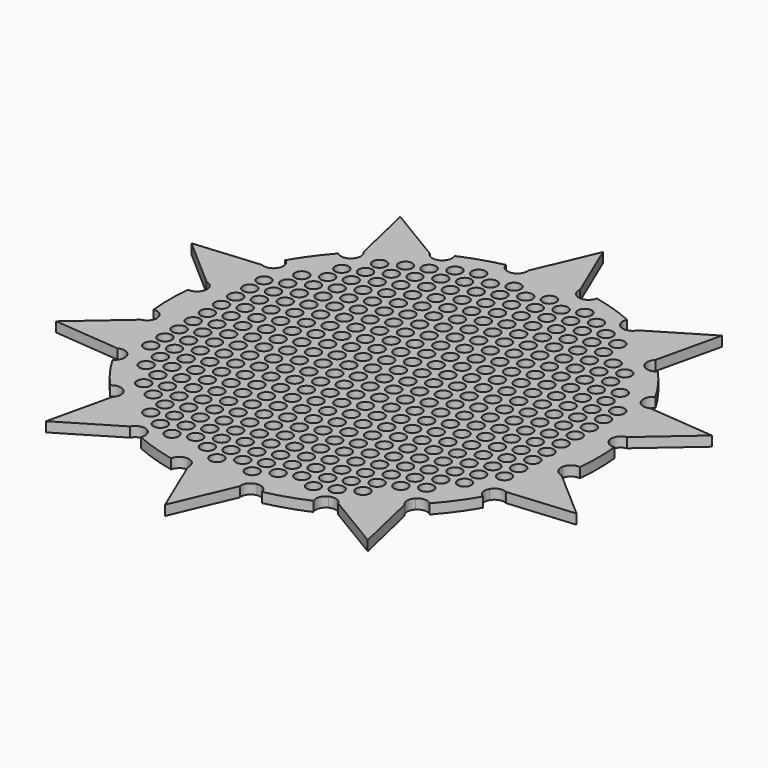
from build123d import *

# Parameters (mm, degrees)
F0_R     = 2.5
F1_DEPTH = 0.127
F3_R     = 0.0875
F4_DEPTH = 0.128


with BuildPart() as f1:
    # F0 (on Top) → F1 (new body)
    with BuildSketch(Plane.XY):
        with BuildLine():
            ThreePointArc((0.4371819273, 2.5863102989), (0.355691734, 2.6367647524), (0.332670369, 2.7298041002))
            ThreePointArc((0.332670369, 2.7298041002), (0, 2.75), (-0.332670369, 2.7298041002))
            ThreePointArc((-0.332670369, 2.7298041002), (-0.3556917334, 2.6367647532), (-0.4371819253, 2.5863102993))
            ThreePointArc((-0.4371819253, 2.5863102993), (1e-09, 2.623), (0.4371819273, 2.5863102989))
        make_face()
        with BuildLine():
            ThreePointArc((-0.332670369, 2.7298041002), (0, 2.75), (0.332670369, 2.7298041002))
            Line((0.332670369, 2.7298041002), (0, 3.512))
            Line((0, 3.512), (-0.332670369, 2.7298041002))
        make_face()
        with BuildLine():
            ThreePointArc((0.58305072, 2.6874805781), (0.5307280391, 2.6071771648), (0.4371819273, 2.5863102989))
            ThreePointArc((0.4371819273, 2.5863102989), (0.8105515843, 2.4946212396), (1.1665074579, 2.3493380665))
            ThreePointArc((1.1665074579, 2.3493380665), (1.1030922874, 2.4212047401), (1.1079635086, 2.5169260743))
            ThreePointArc((1.1079635086, 2.5169260743), (0.8497967345, 2.6154054198), (0.58305072, 2.6874805781))
        make_face()
        with BuildLine():
            ThreePointArc((1.1665074579, 2.3493380665), (0.8105515843, 2.4946212396), (0.4371819273, 2.5863102989))
            ThreePointArc((0.4371819273, 2.5863102989), (1e-09, 2.623), (-0.4371819253, 2.5863102993))
            ThreePointArc((-0.4371819253, 2.5863102993), (-0.8105515878, 2.4946212385), (-1.1665074663, 2.3493380623))
            ThreePointArc((-1.1665074663, 2.3493380623), (-1.5417607284, 2.1220515678), (-1.8738826621, 1.8353998934))
            ThreePointArc((-1.8738826621, 1.8353998934), (-2.1220515776, 1.5417607149), (-2.3246306188, 1.2149985539))
            ThreePointArc((-2.3246306188, 1.2149985539), (-2.4946212423, 0.8105515762), (-2.5948239078, 0.3834291163))
            ThreePointArc((-2.5948239078, 0.3834291163), (-2.623, 0), (-2.5948239078, -0.3834291163))
            ThreePointArc((-2.5948239078, -0.3834291163), (-2.4946212423, -0.8105515762), (-2.3246306188, -1.2149985539))
            ThreePointArc((-2.3246306188, -1.2149985539), (-2.1220515776, -1.5417607149), (-1.8738826621, -1.8353998934))
            ThreePointArc((-1.8738826621, -1.8353998934), (-1.5417607284, -2.1220515678), (-1.1665074663, -2.3493380623))
            ThreePointArc((-1.1665074663, -2.3493380623), (-0.8105515897, -2.4946212379), (-0.4371819293, -2.5863102986))
            ThreePointArc((-0.4371819293, -2.5863102986), (-1.56e-08, -2.623), (0.4371818986, -2.5863103038))
            ThreePointArc((0.4371818986, -2.5863103038), (0.8105515616, -2.494621247), (1.1665074412, -2.3493380748))
            ThreePointArc((1.1665074412, -2.3493380748), (1.541760707, -2.1220515834), (1.8738826446, -1.8353999112))
            ThreePointArc((1.8738826446, -1.8353999112), (2.1220515703, -1.541760725), (2.3246306188, -1.2149985539))
            ThreePointArc((2.3246306188, -1.2149985539), (2.4946212397, -0.8105515841), (2.5948239054, -0.3834291328))
            ThreePointArc((2.5948239054, -0.3834291328), (2.6159464926, -0.192231496), (2.623, 0))
            ThreePointArc((2.623, 0), (2.6159464926, 0.192231496), (2.5948239054, 0.3834291328))
            ThreePointArc((2.5948239054, 0.3834291328), (2.4946212397, 0.8105515841), (2.3246306188, 1.2149985539))
            ThreePointArc((2.3246306188, 1.2149985539), (2.1220515776, 1.5417607149), (1.8738826621, 1.8353998934))
            ThreePointArc((1.8738826621, 1.8353998934), (1.5417607246, 2.1220515706), (1.1665074579, 2.3493380665))
        make_face()
        Circle(F0_R, mode=Mode.SUBTRACT)
        with BuildLine():
            ThreePointArc((-1.1665074663, 2.3493380623), (-0.8105515878, 2.4946212385), (-0.4371819253, 2.5863102993))
            ThreePointArc((-0.4371819253, 2.5863102993), (-0.5307280383, 2.6071771643), (-0.58305072, 2.6874805781))
            ThreePointArc((-0.58305072, 2.6874805781), (-0.8497967345, 2.6154054198), (-1.1079635086, 2.5169260743))
            ThreePointArc((-1.1079635086, 2.5169260743), (-1.1030922889, 2.4212047357), (-1.1665074663, 2.3493380623))
        make_face()
        with BuildLine():
            ThreePointArc((1.3354026098, 2.4039966451), (1.2620907858, 2.3422578531), (1.1665074579, 2.3493380665))
            ThreePointArc((1.1665074579, 2.3493380665), (1.5417607246, 2.1220515706), (1.8738826621, 1.8353998934))
            ThreePointArc((1.8738826621, 1.8353998934), (1.8376120928, 1.9241171381), (1.8736745738, 2.0129191717))
            ThreePointArc((1.8736745738, 2.0129191717), (1.6164094438, 2.2247967345), (1.3354026098, 2.4039966451))
        make_face()
        with BuildLine():
            ThreePointArc((-1.8738826621, 1.8353998934), (-1.5417607284, 2.1220515678), (-1.1665074663, 2.3493380623))
            ThreePointArc((-1.1665074663, 2.3493380623), (-1.2620907902, 2.3422578545), (-1.3354026098, 2.4039966451))
            ThreePointArc((-1.3354026098, 2.4039966451), (-1.6164094438, 2.2247967345), (-1.8736745738, 2.0129191717))
            ThreePointArc((-1.8736745738, 2.0129191717), (-1.8376120928, 1.9241171381), (-1.8738826621, 1.8353998934))
        make_face()
        with BuildLine():
            ThreePointArc((2.0513593907, 1.8315088452), (1.9618282918, 1.7972965193), (1.8738826621, 1.8353998934))
            ThreePointArc((1.8738826621, 1.8353998934), (2.1220515776, 1.5417607149), (2.3246306188, 1.2149985539))
            ThreePointArc((2.3246306188, 1.2149985539), (2.315568848, 1.3104144102), (2.3757733352, 1.3849913573))
            ThreePointArc((2.3757733352, 1.3849913573), (2.2247967345, 1.6164094438), (2.0513593907, 1.8315088452))
        make_face()
        with BuildLine():
            Line((2.0643018061, 2.8412676842), (1.3354026098, 2.4039966451))
            ThreePointArc((1.3354026098, 2.4039966451), (1.6164094438, 2.2247967345), (1.8736745738, 2.0129191717))
            Line((1.8736745738, 2.0129191717), (2.0643018061, 2.8412676842))
        make_face()
        with BuildLine():
            ThreePointArc((-2.3246306188, 1.2149985539), (-2.1220515776, 1.5417607149), (-1.8738826621, 1.8353998934))
            ThreePointArc((-1.8738826621, 1.8353998934), (-1.9618282918, 1.7972965193), (-2.0513593907, 1.8315088452))
            ThreePointArc((-2.0513593907, 1.8315088452), (-2.2247967345, 1.6164094438), (-2.3757733352, 1.3849913573))
            ThreePointArc((-2.3757733352, 1.3849913573), (-2.315568848, 1.3104144102), (-2.3246306188, 1.2149985539))
        make_face()
        with BuildLine():
            ThreePointArc((-1.8736745738, 2.0129191717), (-1.6164094438, 2.2247967345), (-1.3354026098, 2.4039966451))
            Line((-1.3354026098, 2.4039966451), (-2.0643018061, 2.8412676842))
            Line((-2.0643018061, 2.8412676842), (-1.8736745738, 2.0129191717))
        make_face()
        with BuildLine():
            ThreePointArc((2.4933971802, 1.1599441805), (2.3977975102, 1.1530880597), (2.3246306188, 1.2149985539))
            ThreePointArc((2.3246306188, 1.2149985539), (2.4946212397, 0.8105515841), (2.5948239054, 0.3834291328))
            ThreePointArc((2.5948239054, 0.3834291328), (2.6176270957, 0.4765221848), (2.6989987753, 0.5271675361))
            ThreePointArc((2.6989987753, 0.5271675361), (2.6154054198, 0.8497967345), (2.4933971802, 1.1599441805))
        make_face()
        with BuildLine():
            ThreePointArc((-2.5948239078, 0.3834291163), (-2.4946212423, 0.8105515762), (-2.3246306188, 1.2149985539))
            ThreePointArc((-2.3246306188, 1.2149985539), (-2.3977975102, 1.1530880597), (-2.4933971802, 1.1599441805))
            ThreePointArc((-2.4933971802, 1.1599441805), (-2.6154054198, 0.8497967345), (-2.6989987753, 0.5271675361))
            ThreePointArc((-2.6989987753, 0.5271675361), (-2.6176270909, 0.4765221781), (-2.5948239078, 0.3834291163))
        make_face()
        with BuildLine():
            ThreePointArc((2.7361184973, 0.2759629841), (2.6435768078, 0.300909697), (2.5948239054, 0.3834291328))
            ThreePointArc((2.5948239054, 0.3834291328), (2.6159464926, 0.192231496), (2.623, 0))
            ThreePointArc((2.623, 0), (2.6159464926, -0.192231496), (2.5948239054, -0.3834291328))
            ThreePointArc((2.5948239054, -0.3834291328), (2.6435768078, -0.300909697), (2.7361184973, -0.2759629841))
            ThreePointArc((2.7361184973, -0.2759629841), (2.75, 0), (2.7361184973, 0.2759629841))
        make_face()
        with BuildLine():
            Line((3.3401104852, 1.0852676842), (2.4933971802, 1.1599441805))
            ThreePointArc((2.4933971802, 1.1599441805), (2.6154054198, 0.8497967345), (2.6989987753, 0.5271675361))
            Line((2.6989987753, 0.5271675361), (3.3401104852, 1.0852676842))
        make_face()
        with BuildLine():
            ThreePointArc((-2.5948239078, -0.3834291163), (-2.623, 0), (-2.5948239078, 0.3834291163))
            ThreePointArc((-2.5948239078, 0.3834291163), (-2.6435768144, 0.3009096919), (-2.7361184973, 0.2759629841))
            ThreePointArc((-2.7361184973, 0.2759629841), (-2.75, 0), (-2.7361184973, -0.2759629841))
            ThreePointArc((-2.7361184973, -0.2759629841), (-2.6435768144, -0.3009096919), (-2.5948239078, -0.3834291163))
        make_face()
        with BuildLine():
            ThreePointArc((-2.6989987753, 0.5271675361), (-2.6154054198, 0.8497967345), (-2.4933971802, 1.1599441805))
            Line((-2.4933971802, 1.1599441805), (-3.3401104852, 1.0852676842))
            Line((-3.3401104852, 1.0852676842), (-2.6989987753, 0.5271675361))
        make_face()
        with BuildLine():
            ThreePointArc((-2.3246306188, -1.2149985539), (-2.4946212423, -0.8105515762), (-2.5948239078, -0.3834291163))
            ThreePointArc((-2.5948239078, -0.3834291163), (-2.6176270909, -0.4765221781), (-2.6989987753, -0.5271675361))
            ThreePointArc((-2.6989987753, -0.5271675361), (-2.6154054198, -0.8497967345), (-2.4933971802, -1.1599441805))
            ThreePointArc((-2.4933971802, -1.1599441805), (-2.3977975102, -1.1530880597), (-2.3246306188, -1.2149985539))
        make_face()
        with BuildLine():
            ThreePointArc((2.6989987753, -0.5271675361), (2.6176270957, -0.4765221848), (2.5948239054, -0.3834291328))
            ThreePointArc((2.5948239054, -0.3834291328), (2.4946212397, -0.8105515841), (2.3246306188, -1.2149985539))
            ThreePointArc((2.3246306188, -1.2149985539), (2.3977975102, -1.1530880597), (2.4933971802, -1.1599441805))
            ThreePointArc((2.4933971802, -1.1599441805), (2.6154054198, -0.8497967345), (2.6989987753, -0.5271675361))
        make_face()
        with BuildLine():
            ThreePointArc((-1.8738826621, -1.8353998934), (-2.1220515776, -1.5417607149), (-2.3246306188, -1.2149985539))
            ThreePointArc((-2.3246306188, -1.2149985539), (-2.315568848, -1.3104144102), (-2.3757733352, -1.3849913573))
            ThreePointArc((-2.3757733352, -1.3849913573), (-2.2247967345, -1.6164094438), (-2.0513593907, -1.8315088452))
            ThreePointArc((-2.0513593907, -1.8315088452), (-1.9618282918, -1.7972965193), (-1.8738826621, -1.8353998934))
        make_face()
        with BuildLine():
            ThreePointArc((-2.4933971802, -1.1599441805), (-2.6154054198, -0.8497967345), (-2.6989987753, -0.5271675361))
            Line((-2.6989987753, -0.5271675361), (-3.3401104852, -1.0852676842))
            Line((-3.3401104852, -1.0852676842), (-2.4933971802, -1.1599441805))
        make_face()
        with BuildLine():
            ThreePointArc((2.3757733352, -1.3849913573), (2.315568848, -1.3104144102), (2.3246306188, -1.2149985539))
            ThreePointArc((2.3246306188, -1.2149985539), (2.1220515703, -1.541760725), (1.8738826446, -1.8353999112))
            ThreePointArc((1.8738826446, -1.8353999112), (1.9618282794, -1.7972965196), (2.0513593907, -1.8315088452))
            ThreePointArc((2.0513593907, -1.8315088452), (2.2247967345, -1.6164094438), (2.3757733352, -1.3849913573))
        make_face()
        with BuildLine():
            Line((3.3401104852, -1.0852676842), (2.6989987753, -0.5271675361))
            ThreePointArc((2.6989987753, -0.5271675361), (2.6154054198, -0.8497967345), (2.4933971802, -1.1599441805))
            Line((2.4933971802, -1.1599441805), (3.3401104852, -1.0852676842))
        make_face()
        with BuildLine():
            ThreePointArc((-1.1665074663, -2.3493380623), (-1.5417607284, -2.1220515678), (-1.8738826621, -1.8353998934))
            ThreePointArc((-1.8738826621, -1.8353998934), (-1.8376120928, -1.9241171381), (-1.8736745738, -2.0129191717))
            ThreePointArc((-1.8736745738, -2.0129191717), (-1.6164094438, -2.2247967345), (-1.3354026098, -2.4039966451))
            ThreePointArc((-1.3354026098, -2.4039966451), (-1.2620907902, -2.3422578545), (-1.1665074663, -2.3493380623))
        make_face()
        with BuildLine():
            ThreePointArc((1.8736745738, -2.0129191717), (1.8376120928, -1.9241171506), (1.8738826446, -1.8353999112))
            ThreePointArc((1.8738826446, -1.8353999112), (1.541760707, -2.1220515834), (1.1665074412, -2.3493380748))
            ThreePointArc((1.1665074412, -2.3493380748), (1.2620907769, -2.3422578502), (1.3354026098, -2.4039966451))
            ThreePointArc((1.3354026098, -2.4039966451), (1.6164094438, -2.2247967345), (1.8736745738, -2.0129191717))
        make_face()
        with BuildLine():
            ThreePointArc((-0.4371819293, -2.5863102986), (-0.8105515897, -2.4946212379), (-1.1665074663, -2.3493380623))
            ThreePointArc((-1.1665074663, -2.3493380623), (-1.1030922889, -2.4212047357), (-1.1079635086, -2.5169260743))
            ThreePointArc((-1.1079635086, -2.5169260743), (-0.8497967345, -2.6154054198), (-0.58305072, -2.6874805781))
            ThreePointArc((-0.58305072, -2.6874805781), (-0.5307280399, -2.6071771654), (-0.4371819293, -2.5863102986))
        make_face()
        with BuildLine():
            ThreePointArc((-1.3354026098, -2.4039966451), (-1.6164094438, -2.2247967345), (-1.8736745738, -2.0129191717))
            Line((-1.8736745738, -2.0129191717), (-2.0643018061, -2.8412676842))
            Line((-2.0643018061, -2.8412676842), (-1.3354026098, -2.4039966451))
        make_face()
        with BuildLine():
            ThreePointArc((1.1079635086, -2.5169260743), (1.1030922843, -2.4212047489), (1.1665074412, -2.3493380748))
            ThreePointArc((1.1665074412, -2.3493380748), (0.8105515616, -2.494621247), (0.4371818986, -2.5863103038))
            ThreePointArc((0.4371818986, -2.5863103038), (0.5307280271, -2.6071771565), (0.58305072, -2.6874805781))
            ThreePointArc((0.58305072, -2.6874805781), (0.8497967345, -2.6154054198), (1.1079635086, -2.5169260743))
        make_face()
        with BuildLine():
            Line((2.0643018061, -2.8412676842), (1.8736745738, -2.0129191717))
            ThreePointArc((1.8736745738, -2.0129191717), (1.6164094438, -2.2247967345), (1.3354026098, -2.4039966451))
            Line((1.3354026098, -2.4039966451), (2.0643018061, -2.8412676842))
        make_face()
        with BuildLine():
            ThreePointArc((0.4371818986, -2.5863103038), (-1.56e-08, -2.623), (-0.4371819293, -2.5863102986))
            ThreePointArc((-0.4371819293, -2.5863102986), (-0.3556917345, -2.6367647516), (-0.332670369, -2.7298041002))
            ThreePointArc((-0.332670369, -2.7298041002), (0, -2.75), (0.332670369, -2.7298041002))
            ThreePointArc((0.332670369, -2.7298041002), (0.3556917254, -2.6367647642), (0.4371818986, -2.5863103038))
        make_face()
        with BuildLine():
            ThreePointArc((0.332670369, -2.7298041002), (0, -2.75), (-0.332670369, -2.7298041002))
            Line((-0.332670369, -2.7298041002), (0, -3.512))
            Line((0, -3.512), (0.332670369, -2.7298041002))
        make_face()
        Circle(F0_R)
    extrude(amount=F1_DEPTH)

    # F3 (on offset) → F4 (cut, through all)
    with BuildSketch(Plane.XY.offset(0.127)):
        with Locations((-2.0417519944, 1.2336155081)):
            Circle(F3_R)
        with Locations((-2.0417519944, 1.0066155081)):
            Circle(F3_R)
        with Locations((-2.2690836629, 0.9108655081)):
            Circle(F3_R)
        with Locations((-2.0417519944, 0.7796155081)):
            Circle(F3_R)
        with Locations((-1.5877519944, 1.9146155081)):
            Circle(F3_R)
        with Locations((-1.5877519944, 1.6876155081)):
            Circle(F3_R)
        with Locations((-1.8150836629, 1.5918655081)):
            Circle(F3_R)
        with Locations((-1.5877519944, 1.4606155081)):
            Circle(F3_R)
        with Locations((-1.8150836629, 1.3648655081)):
            Circle(F3_R)
        with Locations((-1.5877519944, 1.2336155081)):
            Circle(F3_R)
        with Locations((-1.8150836629, 1.1378655081)):
            Circle(F3_R)
        with Locations((-1.5877519944, 1.0066155081)):
            Circle(F3_R)
        with Locations((-1.8150836629, 0.9108655081)):
            Circle(F3_R)
        with Locations((-1.5877519944, 0.7796155081)):
            Circle(F3_R)
        with Locations((-1.1337519944, 2.1416155081)):
            Circle(F3_R)
        with Locations((-1.3610836629, 2.0458655081)):
            Circle(F3_R)
        with Locations((-1.1337519944, 1.9146155081)):
            Circle(F3_R)
        with Locations((-1.3610836629, 1.8188655081)):
            Circle(F3_R)
        with Locations((-1.1337519944, 1.6876155081)):
            Circle(F3_R)
        with Locations((-1.3610836629, 1.5918655081)):
            Circle(F3_R)
        with Locations((-1.1337519944, 1.4606155081)):
            Circle(F3_R)
        with Locations((-1.3610836629, 1.3648655081)):
            Circle(F3_R)
        with Locations((-1.1337519944, 1.2336155081)):
            Circle(F3_R)
        with Locations((-1.3610836629, 1.1378655081)):
            Circle(F3_R)
        with Locations((-1.1337519944, 1.0066155081)):
            Circle(F3_R)
        with Locations((-1.3610836629, 0.9108655081)):
            Circle(F3_R)
        with Locations((-1.1337519944, 0.7796155081)):
            Circle(F3_R)
        with Locations((-0.6797519944, 2.3686155081)):
            Circle(F3_R)
        with Locations((-0.9070836629, 2.2728655081)):
            Circle(F3_R)
        with Locations((-0.6797519944, 2.1416155081)):
            Circle(F3_R)
        with Locations((-0.9070836629, 2.0458655081)):
            Circle(F3_R)
        with Locations((-0.6797519944, 1.9146155081)):
            Circle(F3_R)
        with Locations((-0.9070836629, 1.8188655081)):
            Circle(F3_R)
        with Locations((-0.6797519944, 1.6876155081)):
            Circle(F3_R)
        with Locations((-0.9070836629, 1.5918655081)):
            Circle(F3_R)
        with Locations((-0.6797519944, 1.4606155081)):
            Circle(F3_R)
        with Locations((-0.9070836629, 1.3648655081)):
            Circle(F3_R)
        with Locations((-0.6797519944, 1.2336155081)):
            Circle(F3_R)
        with Locations((-0.9070836629, 1.1378655081)):
            Circle(F3_R)
        with Locations((-0.6797519944, 1.0066155081)):
            Circle(F3_R)
        with Locations((-0.9070836629, 0.9108655081)):
            Circle(F3_R)
        with Locations((-0.6797519944, 0.7796155081)):
            Circle(F3_R)
        with Locations((-0.2257519944, 2.3686155081)):
            Circle(F3_R)
        with Locations((-0.4530836629, 2.2728655081)):
            Circle(F3_R)
        with Locations((-0.2257519944, 2.1416155081)):
            Circle(F3_R)
        with Locations((-0.4530836629, 2.0458655081)):
            Circle(F3_R)
        with Locations((-0.2257519944, 1.9146155081)):
            Circle(F3_R)
        with Locations((-0.4530836629, 1.8188655081)):
            Circle(F3_R)
        with Locations((-0.2257519944, 1.6876155081)):
            Circle(F3_R)
        with Locations((-0.4530836629, 1.5918655081)):
            Circle(F3_R)
        with Locations((-0.2257519944, 1.4606155081)):
            Circle(F3_R)
        with Locations((-0.4530836629, 1.3648655081)):
            Circle(F3_R)
        with Locations((-0.2257519944, 1.2336155081)):
            Circle(F3_R)
        with Locations((-0.4530836629, 1.1378655081)):
            Circle(F3_R)
        with Locations((-0.2257519944, 1.0066155081)):
            Circle(F3_R)
        with Locations((-0.4530836629, 0.9108655081)):
            Circle(F3_R)
        with Locations((-0.2257519944, 0.7796155081)):
            Circle(F3_R)
        with Locations((0.2282480056, 2.3686155081)):
            Circle(F3_R)
        with Locations((0.0009163371, 2.2728655081)):
            Circle(F3_R)
        with Locations((0.2282480056, 2.1416155081)):
            Circle(F3_R)
        with Locations((0.0009163371, 2.0458655081)):
            Circle(F3_R)
        with Locations((0.2282480056, 1.9146155081)):
            Circle(F3_R)
        with Locations((0.0009163371, 1.8188655081)):
            Circle(F3_R)
        with Locations((0.2282480056, 1.6876155081)):
            Circle(F3_R)
        with Locations((0.0009163371, 1.5918655081)):
            Circle(F3_R)
        with Locations((0.2282480056, 1.4606155081)):
            Circle(F3_R)
        with Locations((0.0009163371, 1.3648655081)):
            Circle(F3_R)
        with Locations((0.2282480056, 1.2336155081)):
            Circle(F3_R)
        with Locations((0.0009163371, 1.1378655081)):
            Circle(F3_R)
        with Locations((0.2282480056, 1.0066155081)):
            Circle(F3_R)
        with Locations((0.0009163371, 0.9108655081)):
            Circle(F3_R)
        with Locations((0.2282480056, 0.7796155081)):
            Circle(F3_R)
        with Locations((0.6822480056, 2.3686155081)):
            Circle(F3_R)
        with Locations((0.4549163371, 2.2728655081)):
            Circle(F3_R)
        with Locations((0.6822480056, 2.1416155081)):
            Circle(F3_R)
        with Locations((0.4549163371, 2.0458655081)):
            Circle(F3_R)
        with Locations((0.6822480056, 1.9146155081)):
            Circle(F3_R)
        with Locations((0.4549163371, 1.8188655081)):
            Circle(F3_R)
        with Locations((0.6822480056, 1.6876155081)):
            Circle(F3_R)
        with Locations((0.4549163371, 1.5918655081)):
            Circle(F3_R)
        with Locations((0.6822480056, 1.4606155081)):
            Circle(F3_R)
        with Locations((0.4549163371, 1.3648655081)):
            Circle(F3_R)
        with Locations((0.6822480056, 1.2336155081)):
            Circle(F3_R)
        with Locations((0.4549163371, 1.1378655081)):
            Circle(F3_R)
        with Locations((0.6822480056, 1.0066155081)):
            Circle(F3_R)
        with Locations((0.4549163371, 0.9108655081)):
            Circle(F3_R)
        with Locations((0.6822480056, 0.7796155081)):
            Circle(F3_R)
        with Locations((0.9089163371, 2.2728655081)):
            Circle(F3_R)
        with Locations((1.1362480056, 2.1416155081)):
            Circle(F3_R)
        with Locations((0.9089163371, 2.0458655081)):
            Circle(F3_R)
        with Locations((1.1362480056, 1.9146155081)):
            Circle(F3_R)
        with Locations((0.9089163371, 1.8188655081)):
            Circle(F3_R)
        with Locations((1.1362480056, 1.6876155081)):
            Circle(F3_R)
        with Locations((0.9089163371, 1.5918655081)):
            Circle(F3_R)
        with Locations((1.1362480056, 1.4606155081)):
            Circle(F3_R)
        with Locations((0.9089163371, 1.3648655081)):
            Circle(F3_R)
        with Locations((1.1362480056, 1.2336155081)):
            Circle(F3_R)
        with Locations((0.9089163371, 1.1378655081)):
            Circle(F3_R)
        with Locations((1.1362480056, 1.0066155081)):
            Circle(F3_R)
        with Locations((0.9089163371, 0.9108655081)):
            Circle(F3_R)
        with Locations((1.1362480056, 0.7796155081)):
            Circle(F3_R)
        with Locations((1.3629163371, 2.0458655081)):
            Circle(F3_R)
        with Locations((1.3629163371, 1.8188655081)):
            Circle(F3_R)
        with Locations((1.5902480056, 1.6876155081)):
            Circle(F3_R)
        with Locations((1.3629163371, 1.5918655081)):
            Circle(F3_R)
        with Locations((1.5902480056, 1.4606155081)):
            Circle(F3_R)
        with Locations((1.3629163371, 1.3648655081)):
            Circle(F3_R)
        with Locations((1.5902480056, 1.2336155081)):
            Circle(F3_R)
        with Locations((1.3629163371, 1.1378655081)):
            Circle(F3_R)
        with Locations((1.5902480056, 1.0066155081)):
            Circle(F3_R)
        with Locations((1.3629163371, 0.9108655081)):
            Circle(F3_R)
        with Locations((1.5902480056, 0.7796155081)):
            Circle(F3_R)
        with Locations((1.8169163371, 1.5918655081)):
            Circle(F3_R)
        with Locations((1.8169163371, 1.3648655081)):
            Circle(F3_R)
        with Locations((2.0442480056, 1.2336155081)):
            Circle(F3_R)
        with Locations((1.8169163371, 1.1378655081)):
            Circle(F3_R)
        with Locations((2.0442480056, 1.0066155081)):
            Circle(F3_R)
        with Locations((1.8169163371, 0.9108655081)):
            Circle(F3_R)
        with Locations((2.0442480056, 0.7796155081)):
            Circle(F3_R)
        with Locations((-2.2690836629, 0.6838655081)):
            Circle(F3_R)
        with Locations((-2.0417519944, 0.5526155081)):
            Circle(F3_R)
        with Locations((-2.2690836629, 0.4568655081)):
            Circle(F3_R)
        with Locations((-2.0417519944, 0.3256155081)):
            Circle(F3_R)
        with Locations((-2.2690836629, 0.2298655081)):
            Circle(F3_R)
        with Locations((-2.0417519944, 0.0986155081)):
            Circle(F3_R)
        with Locations((-2.2690836629, 0.0028655081)):
            Circle(F3_R)
        with Locations((-2.0417519944, -0.1283844919)):
            Circle(F3_R)
        with Locations((-2.2690836629, -0.2241344919)):
            Circle(F3_R)
        with Locations((-2.0417519944, -0.3553844919)):
            Circle(F3_R)
        with Locations((-2.2690836629, -0.4511344919)):
            Circle(F3_R)
        with Locations((-2.0417519944, -0.5823844919)):
            Circle(F3_R)
        with Locations((-2.2690836629, -0.6781344919)):
            Circle(F3_R)
        with Locations((-2.0417519944, -0.8093844919)):
            Circle(F3_R)
        with Locations((-2.2690836629, -0.9051344919)):
            Circle(F3_R)
        with Locations((-2.0417519944, -1.0363844919)):
            Circle(F3_R)
        with Locations((-2.0417519944, -1.2633844919)):
            Circle(F3_R)
        with Locations((-1.8150836629, 0.6838655081)):
            Circle(F3_R)
        with Locations((-1.5877519944, 0.5526155081)):
            Circle(F3_R)
        with Locations((-1.8150836629, 0.4568655081)):
            Circle(F3_R)
        with Locations((-1.5877519944, 0.3256155081)):
            Circle(F3_R)
        with Locations((-1.8150836629, 0.2298655081)):
            Circle(F3_R)
        with Locations((-1.5877519944, 0.0986155081)):
            Circle(F3_R)
        with Locations((-1.8150836629, 0.0028655081)):
            Circle(F3_R)
        with Locations((-1.5877519944, -0.1283844919)):
            Circle(F3_R)
        with Locations((-1.8150836629, -0.2241344919)):
            Circle(F3_R)
        with Locations((-1.5877519944, -0.3553844919)):
            Circle(F3_R)
        with Locations((-1.8150836629, -0.4511344919)):
            Circle(F3_R)
        with Locations((-1.5877519944, -0.5823844919)):
            Circle(F3_R)
        with Locations((-1.8150836629, -0.6781344919)):
            Circle(F3_R)
        with Locations((-1.5877519944, -0.8093844919)):
            Circle(F3_R)
        with Locations((-1.8150836629, -0.9051344919)):
            Circle(F3_R)
        with Locations((-1.5877519944, -1.0363844919)):
            Circle(F3_R)
        with Locations((-1.8150836629, -1.1321344919)):
            Circle(F3_R)
        with Locations((-1.5877519944, -1.2633844919)):
            Circle(F3_R)
        with Locations((-1.8150836629, -1.3591344919)):
            Circle(F3_R)
        with Locations((-1.5877519944, -1.4903844919)):
            Circle(F3_R)
        with Locations((-1.8150836629, -1.5861344919)):
            Circle(F3_R)
        with Locations((-1.5877519944, -1.7173844919)):
            Circle(F3_R)
        with Locations((-1.3610836629, 0.6838655081)):
            Circle(F3_R)
        with Locations((-1.1337519944, 0.5526155081)):
            Circle(F3_R)
        with Locations((-1.3610836629, 0.4568655081)):
            Circle(F3_R)
        with Locations((-1.1337519944, 0.3256155081)):
            Circle(F3_R)
        with Locations((-1.3610836629, 0.2298655081)):
            Circle(F3_R)
        with Locations((-1.1337519944, 0.0986155081)):
            Circle(F3_R)
        with Locations((-1.3610836629, 0.0028655081)):
            Circle(F3_R)
        with Locations((-1.1337519944, -0.1283844919)):
            Circle(F3_R)
        with Locations((-1.3610836629, -0.2241344919)):
            Circle(F3_R)
        with Locations((-1.1337519944, -0.3553844919)):
            Circle(F3_R)
        with Locations((-1.3610836629, -0.4511344919)):
            Circle(F3_R)
        with Locations((-1.1337519944, -0.5823844919)):
            Circle(F3_R)
        with Locations((-1.3610836629, -0.6781344919)):
            Circle(F3_R)
        with Locations((-1.1337519944, -0.8093844919)):
            Circle(F3_R)
        with Locations((-1.3610836629, -0.9051344919)):
            Circle(F3_R)
        with Locations((-1.1337519944, -1.0363844919)):
            Circle(F3_R)
        with Locations((-1.3610836629, -1.1321344919)):
            Circle(F3_R)
        with Locations((-1.1337519944, -1.2633844919)):
            Circle(F3_R)
        with Locations((-1.3610836629, -1.3591344919)):
            Circle(F3_R)
        with Locations((-1.1337519944, -1.4903844919)):
            Circle(F3_R)
        with Locations((-1.3610836629, -1.5861344919)):
            Circle(F3_R)
        with Locations((-1.1337519944, -1.7173844919)):
            Circle(F3_R)
        with Locations((-0.9070836629, 0.6838655081)):
            Circle(F3_R)
        with Locations((-0.6797519944, 0.5526155081)):
            Circle(F3_R)
        with Locations((-0.9070836629, 0.4568655081)):
            Circle(F3_R)
        with Locations((-0.6797519944, 0.3256155081)):
            Circle(F3_R)
        with Locations((-0.9070836629, 0.2298655081)):
            Circle(F3_R)
        with Locations((-0.6797519944, 0.0986155081)):
            Circle(F3_R)
        with Locations((-0.9070836629, 0.0028655081)):
            Circle(F3_R)
        with Locations((-0.6797519944, -0.1283844919)):
            Circle(F3_R)
        with Locations((-0.9070836629, -0.2241344919)):
            Circle(F3_R)
        with Locations((-0.6797519944, -0.3553844919)):
            Circle(F3_R)
        with Locations((-0.9070836629, -0.4511344919)):
            Circle(F3_R)
        with Locations((-0.6797519944, -0.5823844919)):
            Circle(F3_R)
        with Locations((-0.9070836629, -0.6781344919)):
            Circle(F3_R)
        with Locations((-0.6797519944, -0.8093844919)):
            Circle(F3_R)
        with Locations((-0.9070836629, -0.9051344919)):
            Circle(F3_R)
        with Locations((-0.6797519944, -1.0363844919)):
            Circle(F3_R)
        with Locations((-0.9070836629, -1.1321344919)):
            Circle(F3_R)
        with Locations((-0.6797519944, -1.2633844919)):
            Circle(F3_R)
        with Locations((-0.9070836629, -1.3591344919)):
            Circle(F3_R)
        with Locations((-0.6797519944, -1.4903844919)):
            Circle(F3_R)
        with Locations((-0.9070836629, -1.5861344919)):
            Circle(F3_R)
        with Locations((-0.6797519944, -1.7173844919)):
            Circle(F3_R)
        with Locations((-0.4530836629, 0.6838655081)):
            Circle(F3_R)
        with Locations((-0.2257519944, 0.5526155081)):
            Circle(F3_R)
        with Locations((-0.4530836629, 0.4568655081)):
            Circle(F3_R)
        with Locations((-0.2257519944, 0.3256155081)):
            Circle(F3_R)
        with Locations((-0.4530836629, 0.2298655081)):
            Circle(F3_R)
        with Locations((-0.2257519944, 0.0986155081)):
            Circle(F3_R)
        with Locations((-0.4530836629, 0.0028655081)):
            Circle(F3_R)
        with Locations((-0.2257519944, -0.1283844919)):
            Circle(F3_R)
        with Locations((-0.4530836629, -0.2241344919)):
            Circle(F3_R)
        with Locations((-0.2257519944, -0.3553844919)):
            Circle(F3_R)
        with Locations((-0.4530836629, -0.4511344919)):
            Circle(F3_R)
        with Locations((-0.2257519944, -0.5823844919)):
            Circle(F3_R)
        with Locations((-0.4530836629, -0.6781344919)):
            Circle(F3_R)
        with Locations((-0.2257519944, -0.8093844919)):
            Circle(F3_R)
        with Locations((-0.4530836629, -0.9051344919)):
            Circle(F3_R)
        with Locations((-0.2257519944, -1.0363844919)):
            Circle(F3_R)
        with Locations((-0.4530836629, -1.1321344919)):
            Circle(F3_R)
        with Locations((-0.2257519944, -1.2633844919)):
            Circle(F3_R)
        with Locations((-0.4530836629, -1.3591344919)):
            Circle(F3_R)
        with Locations((-0.2257519944, -1.4903844919)):
            Circle(F3_R)
        with Locations((-0.4530836629, -1.5861344919)):
            Circle(F3_R)
        with Locations((-0.2257519944, -1.7173844919)):
            Circle(F3_R)
        with Locations((0.0009163371, 0.6838655081)):
            Circle(F3_R)
        with Locations((0.2282480056, 0.5526155081)):
            Circle(F3_R)
        with Locations((0.0009163371, 0.4568655081)):
            Circle(F3_R)
        with Locations((0.2282480056, 0.3256155081)):
            Circle(F3_R)
        with Locations((0.0009163371, 0.2298655081)):
            Circle(F3_R)
        with Locations((0.2282480056, 0.0986155081)):
            Circle(F3_R)
        with Locations((0.0009163371, 0.0028655081)):
            Circle(F3_R)
        with Locations((0.2282480056, -0.1283844919)):
            Circle(F3_R)
        with Locations((0.0009163371, -0.2241344919)):
            Circle(F3_R)
        with Locations((0.2282480056, -0.3553844919)):
            Circle(F3_R)
        with Locations((0.0009163371, -0.4511344919)):
            Circle(F3_R)
        with Locations((0.2282480056, -0.5823844919)):
            Circle(F3_R)
        with Locations((0.0009163371, -0.6781344919)):
            Circle(F3_R)
        with Locations((0.2282480056, -0.8093844919)):
            Circle(F3_R)
        with Locations((0.0009163371, -0.9051344919)):
            Circle(F3_R)
        with Locations((0.2282480056, -1.0363844919)):
            Circle(F3_R)
        with Locations((0.0009163371, -1.1321344919)):
            Circle(F3_R)
        with Locations((0.2282480056, -1.2633844919)):
            Circle(F3_R)
        with Locations((0.0009163371, -1.3591344919)):
            Circle(F3_R)
        with Locations((0.2282480056, -1.4903844919)):
            Circle(F3_R)
        with Locations((0.0009163371, -1.5861344919)):
            Circle(F3_R)
        with Locations((0.2282480056, -1.7173844919)):
            Circle(F3_R)
        with Locations((0.4549163371, 0.6838655081)):
            Circle(F3_R)
        with Locations((0.6822480056, 0.5526155081)):
            Circle(F3_R)
        with Locations((0.4549163371, 0.4568655081)):
            Circle(F3_R)
        with Locations((0.6822480056, 0.3256155081)):
            Circle(F3_R)
        with Locations((0.4549163371, 0.2298655081)):
            Circle(F3_R)
        with Locations((0.6822480056, 0.0986155081)):
            Circle(F3_R)
        with Locations((0.4549163371, 0.0028655081)):
            Circle(F3_R)
        with Locations((0.6822480056, -0.1283844919)):
            Circle(F3_R)
        with Locations((0.4549163371, -0.2241344919)):
            Circle(F3_R)
        with Locations((0.6822480056, -0.3553844919)):
            Circle(F3_R)
        with Locations((0.4549163371, -0.4511344919)):
            Circle(F3_R)
        with Locations((0.6822480056, -0.5823844919)):
            Circle(F3_R)
        with Locations((0.4549163371, -0.6781344919)):
            Circle(F3_R)
        with Locations((0.6822480056, -0.8093844919)):
            Circle(F3_R)
        with Locations((0.4549163371, -0.9051344919)):
            Circle(F3_R)
        with Locations((0.6822480056, -1.0363844919)):
            Circle(F3_R)
        with Locations((0.4549163371, -1.1321344919)):
            Circle(F3_R)
        with Locations((0.6822480056, -1.2633844919)):
            Circle(F3_R)
        with Locations((0.4549163371, -1.3591344919)):
            Circle(F3_R)
        with Locations((0.6822480056, -1.4903844919)):
            Circle(F3_R)
        with Locations((0.4549163371, -1.5861344919)):
            Circle(F3_R)
        with Locations((0.6822480056, -1.7173844919)):
            Circle(F3_R)
        with Locations((0.9089163371, 0.6838655081)):
            Circle(F3_R)
        with Locations((1.1362480056, 0.5526155081)):
            Circle(F3_R)
        with Locations((0.9089163371, 0.4568655081)):
            Circle(F3_R)
        with Locations((1.1362480056, 0.3256155081)):
            Circle(F3_R)
        with Locations((0.9089163371, 0.2298655081)):
            Circle(F3_R)
        with Locations((1.1362480056, 0.0986155081)):
            Circle(F3_R)
        with Locations((0.9089163371, 0.0028655081)):
            Circle(F3_R)
        with Locations((1.1362480056, -0.1283844919)):
            Circle(F3_R)
        with Locations((0.9089163371, -0.2241344919)):
            Circle(F3_R)
        with Locations((1.1362480056, -0.3553844919)):
            Circle(F3_R)
        with Locations((0.9089163371, -0.4511344919)):
            Circle(F3_R)
        with Locations((1.1362480056, -0.5823844919)):
            Circle(F3_R)
        with Locations((0.9089163371, -0.6781344919)):
            Circle(F3_R)
        with Locations((1.1362480056, -0.8093844919)):
            Circle(F3_R)
        with Locations((0.9089163371, -0.9051344919)):
            Circle(F3_R)
        with Locations((1.1362480056, -1.0363844919)):
            Circle(F3_R)
        with Locations((0.9089163371, -1.1321344919)):
            Circle(F3_R)
        with Locations((1.1362480056, -1.2633844919)):
            Circle(F3_R)
        with Locations((0.9089163371, -1.3591344919)):
            Circle(F3_R)
        with Locations((1.1362480056, -1.4903844919)):
            Circle(F3_R)
        with Locations((0.9089163371, -1.5861344919)):
            Circle(F3_R)
        with Locations((1.1362480056, -1.7173844919)):
            Circle(F3_R)
        with Locations((1.3629163371, 0.6838655081)):
            Circle(F3_R)
        with Locations((1.5902480056, 0.5526155081)):
            Circle(F3_R)
        with Locations((1.3629163371, 0.4568655081)):
            Circle(F3_R)
        with Locations((1.5902480056, 0.3256155081)):
            Circle(F3_R)
        with Locations((1.3629163371, 0.2298655081)):
            Circle(F3_R)
        with Locations((1.5902480056, 0.0986155081)):
            Circle(F3_R)
        with Locations((1.3629163371, 0.0028655081)):
            Circle(F3_R)
        with Locations((1.5902480056, -0.1283844919)):
            Circle(F3_R)
        with Locations((1.3629163371, -0.2241344919)):
            Circle(F3_R)
        with Locations((1.5902480056, -0.3553844919)):
            Circle(F3_R)
        with Locations((1.3629163371, -0.4511344919)):
            Circle(F3_R)
        with Locations((1.5902480056, -0.5823844919)):
            Circle(F3_R)
        with Locations((1.3629163371, -0.6781344919)):
            Circle(F3_R)
        with Locations((1.5902480056, -0.8093844919)):
            Circle(F3_R)
        with Locations((1.3629163371, -0.9051344919)):
            Circle(F3_R)
        with Locations((1.5902480056, -1.0363844919)):
            Circle(F3_R)
        with Locations((1.3629163371, -1.1321344919)):
            Circle(F3_R)
        with Locations((1.5902480056, -1.2633844919)):
            Circle(F3_R)
        with Locations((1.3629163371, -1.3591344919)):
            Circle(F3_R)
        with Locations((1.5902480056, -1.4903844919)):
            Circle(F3_R)
        with Locations((1.3629163371, -1.5861344919)):
            Circle(F3_R)
        with Locations((1.5902480056, -1.7173844919)):
            Circle(F3_R)
        with Locations((1.8169163371, 0.6838655081)):
            Circle(F3_R)
        with Locations((2.0442480056, 0.5526155081)):
            Circle(F3_R)
        with Locations((1.8169163371, 0.4568655081)):
            Circle(F3_R)
        with Locations((2.0442480056, 0.3256155081)):
            Circle(F3_R)
        with Locations((1.8169163371, 0.2298655081)):
            Circle(F3_R)
        with Locations((2.0442480056, 0.0986155081)):
            Circle(F3_R)
        with Locations((1.8169163371, 0.0028655081)):
            Circle(F3_R)
        with Locations((2.0442480056, -0.1283844919)):
            Circle(F3_R)
        with Locations((1.8169163371, -0.2241344919)):
            Circle(F3_R)
        with Locations((2.0442480056, -0.3553844919)):
            Circle(F3_R)
        with Locations((1.8169163371, -0.4511344919)):
            Circle(F3_R)
        with Locations((2.0442480056, -0.5823844919)):
            Circle(F3_R)
        with Locations((1.8169163371, -0.6781344919)):
            Circle(F3_R)
        with Locations((2.0442480056, -0.8093844919)):
            Circle(F3_R)
        with Locations((1.8169163371, -0.9051344919)):
            Circle(F3_R)
        with Locations((2.0442480056, -1.0363844919)):
            Circle(F3_R)
        with Locations((1.8169163371, -1.1321344919)):
            Circle(F3_R)
        with Locations((2.0442480056, -1.2633844919)):
            Circle(F3_R)
        with Locations((1.8169163371, -1.3591344919)):
            Circle(F3_R)
        with Locations((1.8169163371, -1.5861344919)):
            Circle(F3_R)
        with Locations((2.2709163371, 0.9108655081)):
            Circle(F3_R)
        with Locations((2.2709163371, 0.6838655081)):
            Circle(F3_R)
        with Locations((2.2709163371, 0.4568655081)):
            Circle(F3_R)
        with Locations((2.2709163371, 0.2298655081)):
            Circle(F3_R)
        with Locations((2.2709163371, 0.0028655081)):
            Circle(F3_R)
        with Locations((2.2709163371, -0.2241344919)):
            Circle(F3_R)
        with Locations((2.2709163371, -0.4511344919)):
            Circle(F3_R)
        with Locations((2.2709163371, -0.6781344919)):
            Circle(F3_R)
        with Locations((2.2709163371, -0.9051344919)):
            Circle(F3_R)
        with Locations((-1.3610836629, -1.8131344919)):
            Circle(F3_R)
        with Locations((-1.1337519944, -1.9443844919)):
            Circle(F3_R)
        with Locations((-1.3610836629, -2.0401344919)):
            Circle(F3_R)
        with Locations((-1.1337519944, -2.1713844919)):
            Circle(F3_R)
        with Locations((-0.9070836629, -1.8131344919)):
            Circle(F3_R)
        with Locations((-0.6797519944, -1.9443844919)):
            Circle(F3_R)
        with Locations((-0.9070836629, -2.0401344919)):
            Circle(F3_R)
        with Locations((-0.6797519944, -2.1713844919)):
            Circle(F3_R)
        with Locations((-0.9070836629, -2.2671344919)):
            Circle(F3_R)
        with Locations((-0.4530836629, -1.8131344919)):
            Circle(F3_R)
        with Locations((-0.2257519944, -1.9443844919)):
            Circle(F3_R)
        with Locations((-0.4530836629, -2.0401344919)):
            Circle(F3_R)
        with Locations((-0.2257519944, -2.1713844919)):
            Circle(F3_R)
        with Locations((-0.4530836629, -2.2671344919)):
            Circle(F3_R)
        with Locations((-0.2257519944, -2.3983844919)):
            Circle(F3_R)
        with Locations((0.0009163371, -1.8131344919)):
            Circle(F3_R)
        with Locations((0.2282480056, -1.9443844919)):
            Circle(F3_R)
        with Locations((0.0009163371, -2.0401344919)):
            Circle(F3_R)
        with Locations((0.2282480056, -2.1713844919)):
            Circle(F3_R)
        with Locations((0.0009163371, -2.2671344919)):
            Circle(F3_R)
        with Locations((0.2282480056, -2.3983844919)):
            Circle(F3_R)
        with Locations((0.4549163371, -1.8131344919)):
            Circle(F3_R)
        with Locations((0.6822480056, -1.9443844919)):
            Circle(F3_R)
        with Locations((0.4549163371, -2.0401344919)):
            Circle(F3_R)
        with Locations((0.6822480056, -2.1713844919)):
            Circle(F3_R)
        with Locations((0.4549163371, -2.2671344919)):
            Circle(F3_R)
        with Locations((0.9089163371, -1.8131344919)):
            Circle(F3_R)
        with Locations((1.1362480056, -1.9443844919)):
            Circle(F3_R)
        with Locations((0.9089163371, -2.0401344919)):
            Circle(F3_R)
        with Locations((1.1362480056, -2.1713844919)):
            Circle(F3_R)
        with Locations((0.9089163371, -2.2671344919)):
            Circle(F3_R)
        with Locations((1.3629163371, -1.8131344919)):
            Circle(F3_R)
        with Locations((1.3629163371, -2.0401344919)):
            Circle(F3_R)
    extrude(amount=-F4_DEPTH, mode=Mode.SUBTRACT)


solid = f1.part
